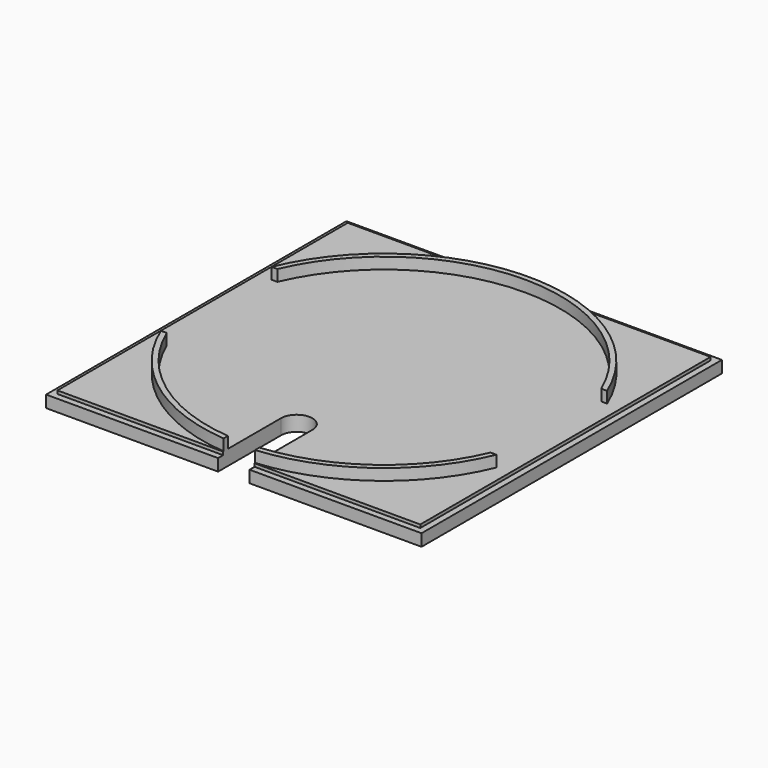
from build123d import *

# Parameters (mm, degrees)
CYLINDER002_R     = 2.5
CYLINDER002_DEPTH = 5
BOX024_W          = 5
BOX024_H          = 12.5
BOX024_DEPTH      = 5
BOX001_W          = 57.7
BOX001_H          = 57.7
BOX001_DEPTH      = 0.5
BOX_W             = 59.7
BOX_H             = 59.7
BOX_DEPTH         = 1.9
BOX003_W          = 5
BOX003_H          = 22
BOX003_DEPTH      = 2.5
BOX002_W          = 5
BOX002_H          = 22
BOX002_DEPTH      = 2.5
CYLINDER001_R     = 28
CYLINDER001_DEPTH = 1.8
CYLINDER_R        = 28.85
CYLINDER_DEPTH    = 1.8


with BuildPart() as cylinder001:
    # Cylinder002 → Cylinder002 (new body)
    with BuildSketch(Plane(origin=(29.85, 12.5, 0), x_dir=(1, 0, 0), z_dir=(0, 0, 1))):
        Circle(CYLINDER002_R)
    extrude(amount=CYLINDER002_DEPTH)


with BuildPart() as cube:
    # Box024 → Box024 (new body)
    with BuildSketch(Plane(origin=(27.35, 0, 0), x_dir=(1, 0, 0), z_dir=(0, 0, 1))):
        with Locations((2.5, 6.25)):
            Rectangle(BOX024_W, BOX024_H)
    extrude(amount=BOX024_DEPTH)


with BuildPart() as layer_inside_base:
    # Box001 → Box001 (new body)
    with BuildSketch(Plane(origin=(1, 1, 1.9), x_dir=(1, 0, 0), z_dir=(0, 0, 1))):
        with Locations((28.85, 28.85)):
            Rectangle(BOX001_W, BOX001_H)
    extrude(amount=BOX001_DEPTH)


with BuildPart() as plate:
    # Box → Box (new body)
    with BuildSketch(Plane.XY):
        with Locations((29.85, 29.85)):
            Rectangle(BOX_W, BOX_H)
    extrude(amount=BOX_DEPTH)

    # Fusion: union Layer_Inside_Base
    add(layer_inside_base.part)


with BuildPart() as box003:
    # Box003 → Box003 (new body)
    with BuildSketch(Plane(origin=(54.7, 18.85, 1.9), x_dir=(1, 0, 0), z_dir=(0, 0, 1))):
        with Locations((2.5, 11)):
            Rectangle(BOX003_W, BOX003_H)
    extrude(amount=BOX003_DEPTH)


with BuildPart() as box002:
    # Box002 → Box002 (new body)
    with BuildSketch(Plane(origin=(0, 18.85, 1.9), x_dir=(1, 0, 0), z_dir=(0, 0, 1))):
        with Locations((2.5, 11)):
            Rectangle(BOX002_W, BOX002_H)
    extrude(amount=BOX002_DEPTH)


with BuildPart() as cylinder_inside:
    # Cylinder001 → Cylinder001 (new body)
    with BuildSketch(Plane(origin=(29.85, 29.85, 2.4), x_dir=(1, 0, 0), z_dir=(0, 0, 1))):
        Circle(CYLINDER001_R)
    extrude(amount=CYLINDER001_DEPTH)


with BuildPart() as cut006:
    # Cylinder → Cylinder (new body)
    with BuildSketch(Plane(origin=(29.85, 29.85, 2.4), x_dir=(1, 0, 0), z_dir=(0, 0, 1))):
        Circle(CYLINDER_R)
    extrude(amount=CYLINDER_DEPTH)

    # Cut: cut Cylinder_Inside
    add(cylinder_inside.part, mode=Mode.SUBTRACT)

    # Cut001: cut Box002
    add(box002.part, mode=Mode.SUBTRACT)

    # Cut002: cut Box003
    add(box003.part, mode=Mode.SUBTRACT)

    # Fusion001: union Plate
    add(plate.part)

    # Cut005: cut Cube
    add(cube.part, mode=Mode.SUBTRACT)

    # Cut006: cut Cylinder001
    add(cylinder001.part, mode=Mode.SUBTRACT)


solid = cut006.part
